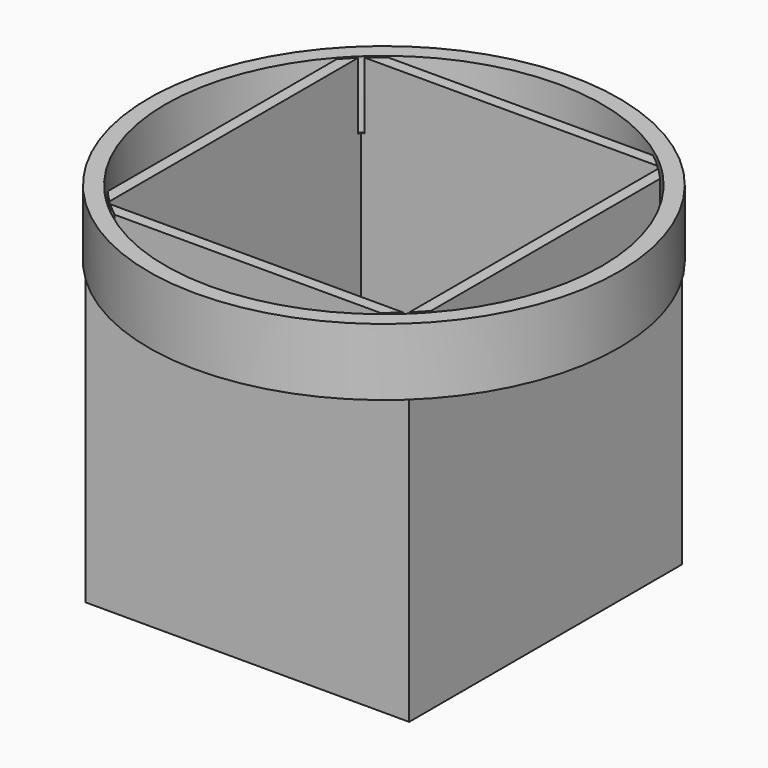
from build123d import *

# Parameters (mm, degrees)
F3_W     = 128.3186668592
F3_H     = 135.8387685024
F4_DEPTH = 5
F3_W_2   = 138.3186668592
F3_H_2   = 145.8387685024
F5_DEPTH = 121.3525491577
F8_DEPTH = 28.6474508423
F9_DEPTH = 28.6474508423


with BuildPart() as f4:
    # F3 (on Top) → F4 (new body)
    with BuildSketch(Plane.XY):
        Rectangle(F3_W, F3_H)
    extrude(amount=F4_DEPTH)

    # F3 (on Top) → F5 (join)
    with BuildSketch(Plane.XY):
        Rectangle(F3_W_2, F3_H_2)
        Rectangle(F3_W, F3_H, mode=Mode.SUBTRACT)
    extrude(amount=F5_DEPTH)

    # F6 (on face) → F9 (join)
    with BuildSketch(Plane.XY.offset(121.3525491577)):
        with BuildLine():
            Line((69.1593334296, 0), (69.1593334296, 61.1959252729))
            ThreePointArc((69.1593334296, 61.1959252729), (66.7104779192, 63.8566112962), (64.1593334296, 66.4193842512))
            Line((64.1593334296, 66.4193842512), (64.1593334296, 0))
            Line((64.1593334296, 0), (64.1593334296, -66.4193842512))
            ThreePointArc((64.1593334296, -66.4193842512), (66.7104779192, -63.8566112962), (69.1593334296, -61.1959252729))
            Line((69.1593334296, -61.1959252729), (69.1593334296, 0))
        make_face()
        with BuildLine():
            ThreePointArc((62.6593334296, 67.9193842512), (59.7633032908, 70.4810783309), (56.7626481353, 72.9193842512))
            Line((56.7626481353, 72.9193842512), (0, 72.9193842512))
            Line((0, 72.9193842512), (-56.7626481353, 72.9193842512))
            ThreePointArc((-56.7626481353, 72.9193842512), (-59.7633032908, 70.4810783309), (-62.6593334296, 67.9193842512))
            Line((-62.6593334296, 67.9193842512), (0, 67.9193842512))
            Line((0, 67.9193842512), (62.6593334296, 67.9193842512))
        make_face()
        with BuildLine():
            ThreePointArc((-64.1593334296, 66.4193842512), (-66.7104779192, 63.8566112962), (-69.1593334296, 61.1959252729))
            Line((-69.1593334296, 61.1959252729), (-69.1593334296, 0))
            Line((-69.1593334296, 0), (-69.1593334296, -61.1959252729))
            ThreePointArc((-69.1593334296, -61.1959252729), (-66.7104779192, -63.8566112962), (-64.1593334296, -66.4193842512))
            Line((-64.1593334296, -66.4193842512), (-64.1593334296, 0))
            Line((-64.1593334296, 0), (-64.1593334296, 66.4193842512))
        make_face()
        with BuildLine():
            Line((0, -72.9193842512), (56.7626481353, -72.9193842512))
            ThreePointArc((56.7626481353, -72.9193842512), (59.7633032908, -70.4810783309), (62.6593334296, -67.9193842512))
            Line((62.6593334296, -67.9193842512), (0, -67.9193842512))
            Line((0, -67.9193842512), (-62.6593334296, -67.9193842512))
            ThreePointArc((-62.6593334296, -67.9193842512), (-59.7633032908, -70.4810783309), (-56.7626481353, -72.9193842512))
            Line((-56.7626481353, -72.9193842512), (0, -72.9193842512))
        make_face()
    extrude(amount=F9_DEPTH)


with BuildPart() as f8:
    # F7 (on face) → F8 (new body)
    with BuildSketch(Plane.XY.offset(121.3525491577)):
        with BuildLine():
            ThreePointArc((-58.4142638713, -72.9193842512), (-61.3377672305, -70.4779478587), (-64.1593334296, -67.9193842512))
            ThreePointArc((-64.1593334296, -67.9193842512), (-66.708063189, -65.4178655167), (-69.1593334296, -62.8207722235))
            Line((-69.1593334296, -62.8207722235), (-69.1593334296, -72.9193842512))
            Line((-69.1593334296, -72.9193842512), (-58.4142638713, -72.9193842512))
        make_face()
        with BuildLine():
            Line((-69.1593334296, 62.8207722235), (-69.1593334296, 72.9193842512))
            ThreePointArc((-69.1593334296, 72.9193842512), (-100.5, 0), (-69.1593334296, -72.9193842512))
            Line((-69.1593334296, -72.9193842512), (-69.1593334296, -62.8207722235))
            ThreePointArc((-69.1593334296, -62.8207722235), (-93.4315943522, 0), (-69.1593334296, 62.8207722235))
        make_face()
        with BuildLine():
            ThreePointArc((64.1593334296, 67.9193842512), (66.708063189, 65.4178655167), (69.1593334296, 62.8207722235))
            Line((69.1593334296, 62.8207722235), (69.1593334296, 72.9193842512))
            Line((69.1593334296, 72.9193842512), (58.4142638713, 72.9193842512))
            ThreePointArc((58.4142638713, 72.9193842512), (61.3377672305, 70.4779478587), (64.1593334296, 67.9193842512))
        make_face()
        with BuildLine():
            ThreePointArc((-69.1593334296, 62.8207722235), (-66.708063189, 65.4178655167), (-64.1593334296, 67.9193842512))
            ThreePointArc((-64.1593334296, 67.9193842512), (-61.3377672305, 70.4779478587), (-58.4142638713, 72.9193842512))
            Line((-58.4142638713, 72.9193842512), (-69.1593334296, 72.9193842512))
            Line((-69.1593334296, 72.9193842512), (-69.1593334296, 62.8207722235))
        make_face()
        with BuildLine():
            Line((58.4142638713, 72.9193842512), (69.1593334296, 72.9193842512))
            ThreePointArc((69.1593334296, 72.9193842512), (0, 100.5), (-69.1593334296, 72.9193842512))
            Line((-69.1593334296, 72.9193842512), (-58.4142638713, 72.9193842512))
            ThreePointArc((-58.4142638713, 72.9193842512), (0, 93.4315943522), (58.4142638713, 72.9193842512))
        make_face()
        with BuildLine():
            ThreePointArc((69.1593334296, 62.8207722235), (87.1525375702, 33.6734022377), (93.4315943522, 0))
            ThreePointArc((93.4315943522, 0), (87.1525375702, -33.6734022377), (69.1593334296, -62.8207722235))
            Line((69.1593334296, -62.8207722235), (69.1593334296, -72.9193842512))
            ThreePointArc((69.1593334296, -72.9193842512), (92.3329925045, -39.6846128262), (100.5, 0))
            ThreePointArc((100.5, 0), (92.3329925045, 39.6846128262), (69.1593334296, 72.9193842512))
            Line((69.1593334296, 72.9193842512), (69.1593334296, 62.8207722235))
        make_face()
        with BuildLine():
            Line((69.1593334296, -72.9193842512), (69.1593334296, -62.8207722235))
            ThreePointArc((69.1593334296, -62.8207722235), (66.708063189, -65.4178655167), (64.1593334296, -67.9193842512))
            ThreePointArc((64.1593334296, -67.9193842512), (61.3377672305, -70.4779478587), (58.4142638713, -72.9193842512))
            Line((58.4142638713, -72.9193842512), (69.1593334296, -72.9193842512))
        make_face()
        with BuildLine():
            ThreePointArc((-69.1593334296, -72.9193842512), (0, -100.5), (69.1593334296, -72.9193842512))
            Line((69.1593334296, -72.9193842512), (58.4142638713, -72.9193842512))
            ThreePointArc((58.4142638713, -72.9193842512), (0, -93.4315943522), (-58.4142638713, -72.9193842512))
            Line((-58.4142638713, -72.9193842512), (-69.1593334296, -72.9193842512))
        make_face()
    extrude(amount=F8_DEPTH)


solid = Compound([f4.part, f8.part])
